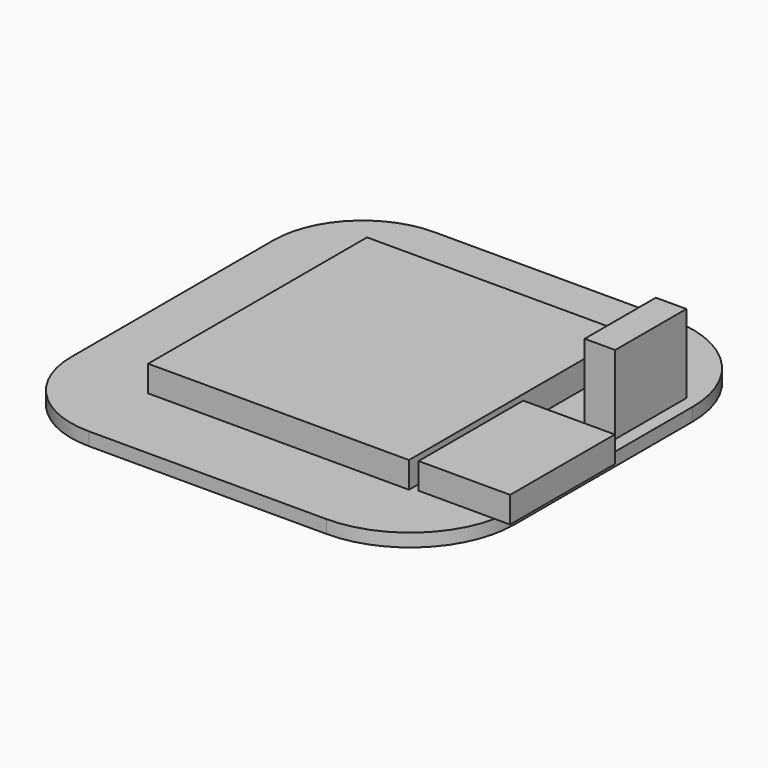
from build123d import *

# Parameters (mm, degrees)
F1_DEPTH = 1
F3_DEPTH = 2
F4_W     = 19.942
F4_H     = 20.917
F5_DEPTH = 2
F2_W     = 2.335
F2_H     = 6.803
F6_DEPTH = 6
F7_W     = 10.966
F7_H     = 10.966
F8_DEPTH = 1


with BuildPart() as f1:
    # F0 (on Top) → F1 (new body)
    with BuildSketch(Plane.XY):
        with BuildLine():
            Line((-9.672, -16.5), (8.5, -16.5))
            ThreePointArc((8.5, -16.5), (14.156854, -14.156854), (16.5, -8.5))
            Line((16.5, -8.5), (16.5, 8.5))
            ThreePointArc((16.5, 8.5), (14.156854, 14.156854), (8.5, 16.5))
            Line((8.5, 16.5), (-9.672, 16.5))
            ThreePointArc((-9.672, 16.5), (-14.500125, 14.500125), (-16.5, 9.672))
            Line((-16.5, 9.672), (-16.5, -9.672))
            ThreePointArc((-16.5, -9.672), (-14.500125, -14.500125), (-9.672, -16.5))
        make_face()
    extrude(amount=F1_DEPTH)

    # F2 (on face) → F3 (join)
    with BuildSketch(Plane.XY.offset(1)):
        with BuildLine():
            Line((16.317289, -10.2), (17.5, -10.2))
            Line((17.5, -10.2), (17.5, -0.2))
            Line((17.5, -0.2), (16.5, -0.2))
            Line((16.5, -0.2), (16.5, -8.5))
            ThreePointArc((16.5, -8.5), (16.454191, -9.354895), (16.317289, -10.2))
        make_face()
        with BuildLine():
            Line((10.5, -10.2), (16.317289, -10.2))
            ThreePointArc((16.317289, -10.2), (16.454191, -9.354895), (16.5, -8.5))
            Line((16.5, -8.5), (16.5, -0.2))
            Line((16.5, -0.2), (10.5, -0.2))
            Line((10.5, -0.2), (10.5, -10.2))
        make_face()
    extrude(amount=F3_DEPTH)

    # F4 (on face) → F5 (join)
    with BuildSketch(Plane.XY.offset(1)):
        Rectangle(F4_W, F4_H)
    extrude(amount=F5_DEPTH)

    # F2 (on face) → F6 (join)
    with BuildSketch(Plane.XY.offset(1)):
        with Locations((14.3325, 5.7395)):
            Rectangle(F2_W, F2_H)
    extrude(amount=F6_DEPTH)

    # F7 (on face) → F8 (join)
    with BuildSketch(Plane(origin=(0, 0, 0), x_dir=(1, 0, 0), z_dir=(0, 0, -1))):
        with Locations((-6.651, 0.863)):
            Rectangle(F7_W, F7_H)
    extrude(amount=F8_DEPTH)


solid = f1.part
